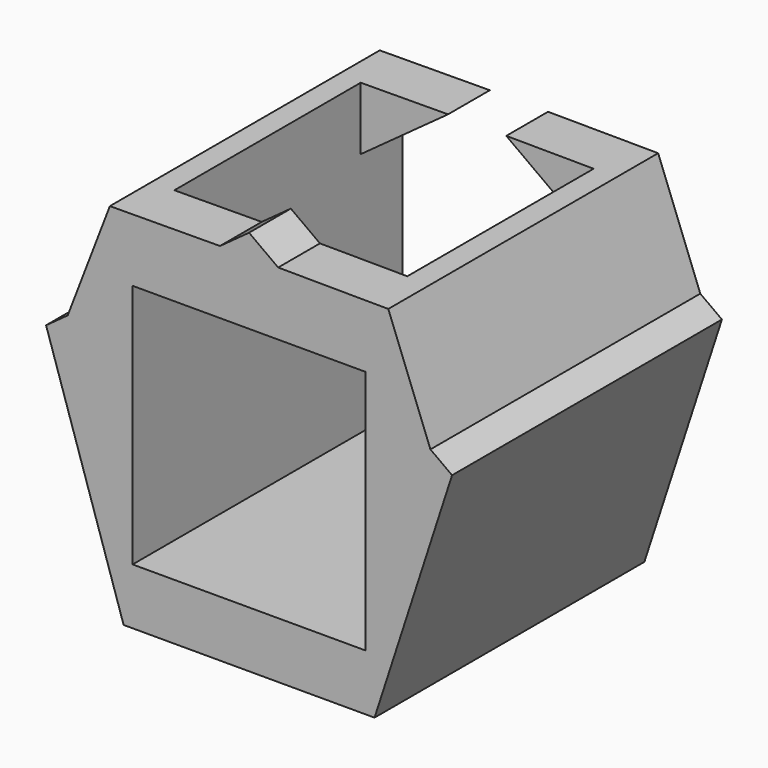
from build123d import *

# Parameters (mm, degrees)
F1_DEPTH      = 42
F1_DEPTH_BACK = 42
F2_DEPTH      = 25
F4_DEPTH      = 65.4
F5_START      = -31.4
F3_W          = 58
F3_H          = 58
F5_DEPTH      = 75.6
F6_START      = -25
F3_W_2        = 2.2413287042
F6_DEPTH      = 53


with BuildPart() as f1:
    # F0 (on Front) → F1 (new body, two sides)
    with BuildSketch(Plane.XZ) as f1_sk:
        Polygon((-31.2413287042, -43), (31.2413287042, -43), (50.5495316972, 16.4245384838), (45.1621487729, 20.3387012929), (39.7747658486, 24.252864102), (29, 32.0811897203), (29, 29), (29, -29), (-29, -29), (-29, 29), (-29, 32.0811897203), (-45.1621487729, 20.3387012929), (-50.5495316972, 16.4245384838), align=None)
        Polygon((39.7747658486, 24.252864102), (45.1621487729, 20.3387012929), (34.6653007859, 47.7126932694), (7.25, 47.8834897045), (14.5, 42.6160563764), (29, 32.0811897203), align=None)
        Polygon((-34.6653007859, 47.7126932694), (-45.1621487729, 20.3387012929), (-29, 32.0811897203), (-7.25, 47.8834897045), align=None)
        Polygon((-7.25, 47.8834897045), (-29, 32.0811897203), (29, 32.0811897203), (14.5, 42.6160563764), (7.25, 47.8834897045), (0, 53.1509230325), align=None)
    extrude(amount=-F1_DEPTH)
    extrude(f1_sk.sketch, amount=F1_DEPTH_BACK)

    # F0 (on Front) → F2 (join)
    with BuildSketch(Plane.XZ):
        Polygon((-31.2413287042, -43), (31.2413287042, -43), (50.5495316972, 16.4245384838), (45.1621487729, 20.3387012929), (39.7747658486, 24.252864102), (29, 32.0811897203), (29, 29), (29, -29), (-29, -29), (-29, 29), (-29, 32.0811897203), (-45.1621487729, 20.3387012929), (-50.5495316972, 16.4245384838), align=None)
        Polygon((39.7747658486, 24.252864102), (45.1621487729, 20.3387012929), (34.6653007859, 47.7126932694), (7.25, 47.8834897045), (14.5, 42.6160563764), (29, 32.0811897203), align=None)
        Polygon((-34.6653007859, 47.7126932694), (-45.1621487729, 20.3387012929), (-29, 32.0811897203), (-7.25, 47.8834897045), align=None)
        Polygon((-7.25, 47.8834897045), (-29, 32.0811897203), (29, 32.0811897203), (14.5, 42.6160563764), (7.25, 47.8834897045), (0, 53.1509230325), align=None)
    extrude(amount=F2_DEPTH)

    # F0 (on Front) → F4 (cut)
    with BuildSketch(Plane.XZ):
        Polygon((-7.25, 47.8834897045), (-29, 32.0811897203), (29, 32.0811897203), (14.5, 42.6160563764), (7.25, 47.8834897045), (0, 53.1509230325), align=None)
    extrude(amount=-F4_DEPTH, mode=Mode.SUBTRACT)

    # F3 (on face) → F5 (cut)
    with BuildSketch(Plane(origin=(0, 0, -43), x_dir=(1, 0, 0), z_dir=(0, 0, -1)).offset(F5_START)):
        Rectangle(F3_W, F3_H)
    extrude(amount=-F5_DEPTH, mode=Mode.SUBTRACT)

    # F3 (on face) → F6 (join)
    with BuildSketch(Plane(origin=(0, 0, -43), x_dir=(1, 0, 0), z_dir=(0, 0, -1)).offset(F6_START)):
        with Locations((-30.1206643521, 0)):
            Rectangle(F3_W_2, F3_H)
        with Locations((-30.1206643521, 0)):
            Rectangle(F3_W_2, F3_H)
        with Locations((30.1206643521, 0)):
            Rectangle(F3_W_2, F3_H)
        with Locations((30.1206643521, 0)):
            Rectangle(F3_W_2, F3_H)
    extrude(amount=-F6_DEPTH)


solid = f1.part
